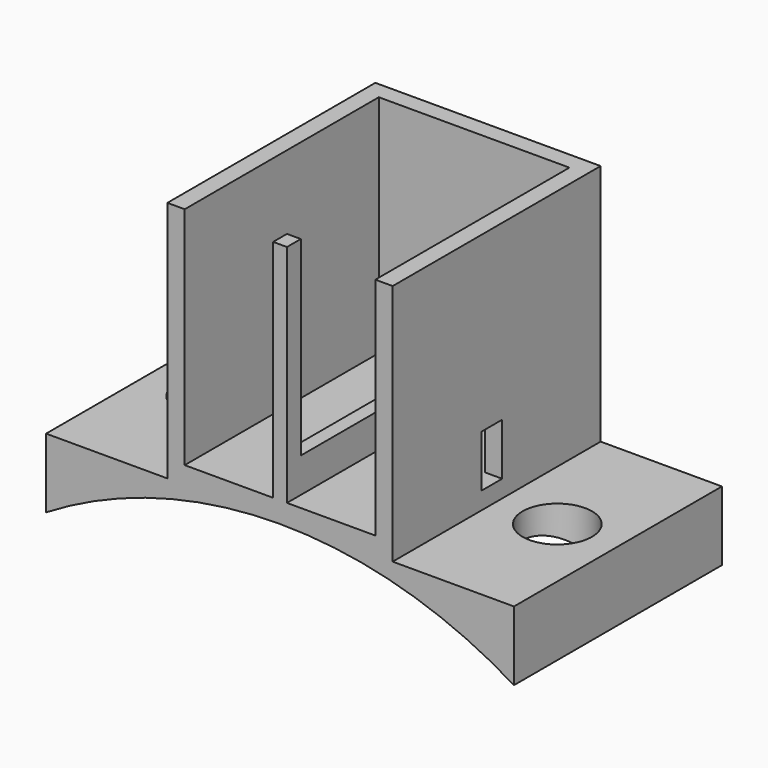
from build123d import *

# Parameters (mm, degrees)
F1_W      = 13
F1_H      = 15
F2_DEPTH  = 18
F0_W      = 11
F0_H      = 13
F3_DEPTH  = 13
F4_W      = 0.8
F4_H      = 13
F5_DEPTH  = 2
F7_W      = 5.064733
F7_H      = 2.673392
F6_W      = 5.1
F6_H      = 2.730513
F8_DEPTH  = 15
F9_W      = 1.5
F9_H      = 3
F10_DEPTH = 25
F13_W     = 15
F13_H     = 4
F14_DEPTH = 7
F15_R     = 2
F16_DEPTH = 25
F19_DEPTH = 25


with BuildPart() as f2:
    # F1 (on Top) → F2 (new body)
    with BuildSketch(Plane.XY):
        Rectangle(F1_W, F1_H)
    extrude(amount=-F2_DEPTH)

    # F0 (on Top) → F3 (cut)
    with BuildSketch(Plane.XY):
        Rectangle(F0_W, F0_H)
    extrude(amount=-F3_DEPTH, mode=Mode.SUBTRACT)

    # F4 (on face) → F5 (join)
    with BuildSketch(Plane.XY.offset(-13)):
        Rectangle(F4_W, F4_H)
    extrude(amount=F5_DEPTH)

    # F7 (on face) + F6 (on face) → F8 (cut)
    with BuildSketch(Plane.XY.offset(-13)):
        with Locations((-2.967633, -6.836696)):
            Rectangle(F7_W, F7_H)
    with BuildSketch(Plane.XY.offset(-13)):
        with Locations((2.95, -6.865257)):
            Rectangle(F6_W, F6_H)
    extrude(amount=F8_DEPTH, mode=Mode.SUBTRACT)

    # F9 (on face) → F10 (cut)
    with BuildSketch(Plane.YZ.offset(-5.5)):
        with Locations((-0.35, -11.5)):
            Rectangle(F9_W, F9_H)
    extrude(amount=-F10_DEPTH, mode=Mode.SUBTRACT)

    # F11: F2 across plane


with BuildPart() as f2_1:
    add(f2.part)
    add(f2.part.mirror(Plane.YZ), mode=Mode.INTERSECT)

    # F13 (on face) → F14 (join)
    with BuildSketch(Plane(origin=(-6.5, 0, 0), x_dir=(0, -1, 0), z_dir=(-1, 0, 0))):
        with Locations((0, -16)):
            Rectangle(F13_W, F13_H)
    extrude(amount=F14_DEPTH)

    # F15 (on face) → F16 (cut)
    with BuildSketch(Plane.XY.offset(-14)):
        with Locations((-10, 0)):
            Circle(F15_R)
    extrude(amount=-F16_DEPTH, mode=Mode.SUBTRACT)

    # F17: F2 across plane


with BuildPart() as f2_2:
    add(f2_1.part)
    add(f2_1.part.mirror(Plane.YZ))

    # F18 (on face) → F19 (cut)
    with BuildSketch(Plane.XZ.offset(7.5)):
        with BuildLine():
            Line((-13.5, -18), (13.5, -18))
            ThreePointArc((13.5, -18), (0, -14.2), (-13.5, -18))
        make_face()
    extrude(amount=-F19_DEPTH, mode=Mode.SUBTRACT)


solid = f2_2.part
